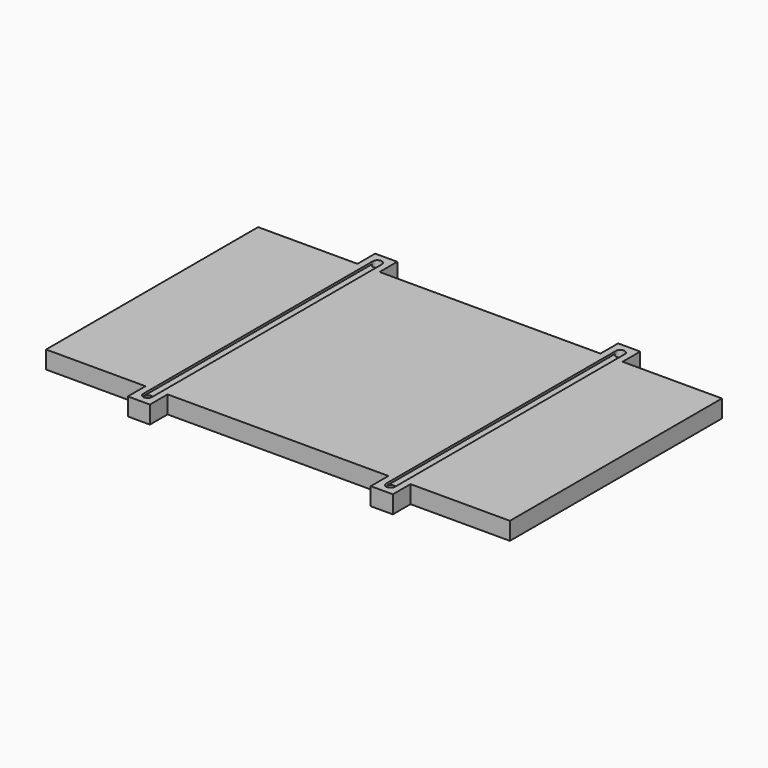
from build123d import *

# Parameters (mm, degrees)
SKETCH_R        = 1
PAD_DEPTH       = 4
SKETCH001_W     = 101
SKETCH001_H     = 56
POCKET_DEPTH    = 2
SKETCH002_W     = 2
SKETCH002_H     = 65
POCKET001_DEPTH = 0.5


with BuildPart() as part:
    # Sketch → Pad (new body)
    with BuildSketch(Plane.XY):
        Polygon((105, 0), (105, 60), (82.5, 60), (82.5, 65), (77.5, 65), (77.5, 60), (27.5, 60), (27.5, 65), (22.5, 65), (22.5, 60), (0, 60), (0, 0), (22.5, 0), (22.5, -5), (27.5, -5), (27.5, 0), (77.5, 0), (77.5, -5), (82.5, -5), (82.5, 0), align=None)
        with Locations((25, 62.5)):
            Circle(SKETCH_R, mode=Mode.SUBTRACT)
        with Locations((80, 62.5)):
            Circle(SKETCH_R, mode=Mode.SUBTRACT)
        with Locations((80, -2.5)):
            Circle(SKETCH_R, mode=Mode.SUBTRACT)
        with Locations((25, -2.5)):
            Circle(SKETCH_R, mode=Mode.SUBTRACT)
    extrude(amount=PAD_DEPTH)

    # Sketch001 → Pocket (cut)
    with BuildSketch(Plane.XY):
        with Locations((52.5, 30)):
            Rectangle(SKETCH001_W, SKETCH001_H)
    extrude(amount=POCKET_DEPTH, mode=Mode.SUBTRACT)

    # Sketch002 (on Face5 of Pocket) → Pocket001 (cut)
    with BuildSketch(Plane.XY.offset(4)):
        with Locations((25, 30)):
            Rectangle(SKETCH002_W, SKETCH002_H)
        with Locations((80, 30)):
            Rectangle(SKETCH002_W, SKETCH002_H)
    extrude(amount=-POCKET001_DEPTH, mode=Mode.SUBTRACT)


solid = part.part
